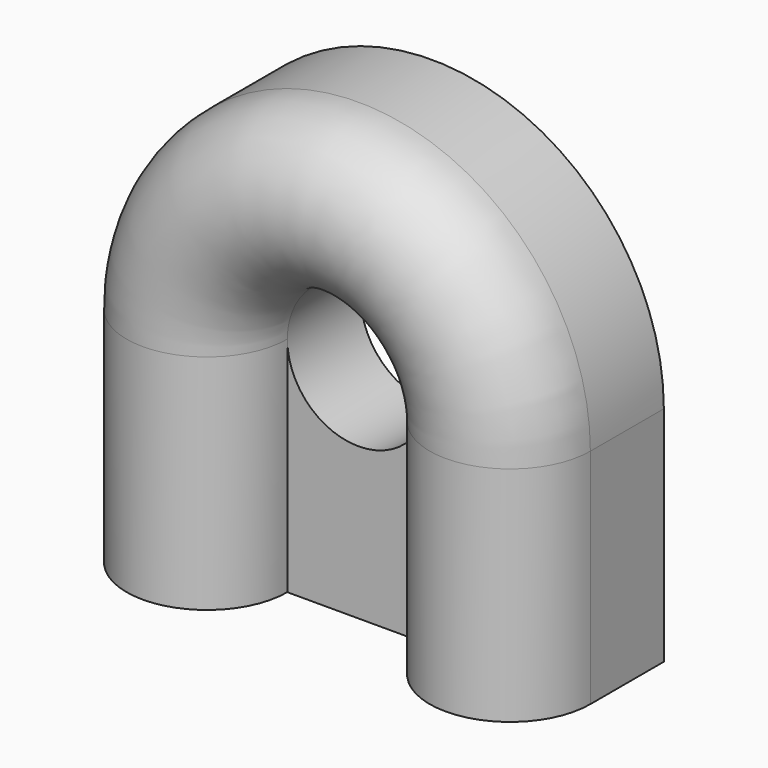
from build123d import *

# Parameters (mm, degrees)
F1_R     = 70
F4_DEPTH = 80
F5_R     = 62
F6_DEPTH = 85
F7_W     = 435.71645
F7_H     = 77.360585
F8_DEPTH = 80


with BuildPart() as f3:
    # F3: sweep along a path in F0
    with BuildLine(Plane.XZ) as f3_path:
        Line((64, 0), (64, 194))
        ThreePointArc((64, 194), (-68, 326), (-200, 194))
        Line((-200, 194), (-200, 0))
    # F1 (on Top) → F3 (sweep)
    with BuildSketch(Plane.XY):
        with Locations((64, 0)):
            Circle(F1_R)
    sweep(path=f3_path.line)

    # F2 (on Front) → F4 (join)
    with BuildSketch(Plane.XZ):
        with BuildLine():
            Line((-270, 194), (134, 194))
            ThreePointArc((134, 194), (-68, 396), (-270, 194))
        make_face()
        with BuildLine():
            ThreePointArc((-270, 194), (-68, -8), (134, 194))
            Line((134, 194), (-270, 194))
        make_face()
        with BuildLine():
            Line((134, -18.768641), (134, 194))
            ThreePointArc((134, 194), (-68, -8), (-270, 194))
            Line((-270, 194), (-270, -18.768641))
            Line((-270, -18.768641), (134, -18.768641))
        make_face()
    extrude(amount=-F4_DEPTH)

    # F5 (on Front) → F6 (cut)
    with BuildSketch(Plane.XZ):
        with Locations((-68, 194)):
            Circle(F5_R)
    extrude(amount=-F6_DEPTH, mode=Mode.SUBTRACT)

    # F7 (on Front) → F8 (cut)
    with BuildSketch(Plane.XZ):
        with Locations((-63.542128, -38.680293)):
            Rectangle(F7_W, F7_H)
    extrude(amount=-F8_DEPTH, mode=Mode.SUBTRACT)


solid = f3.part
